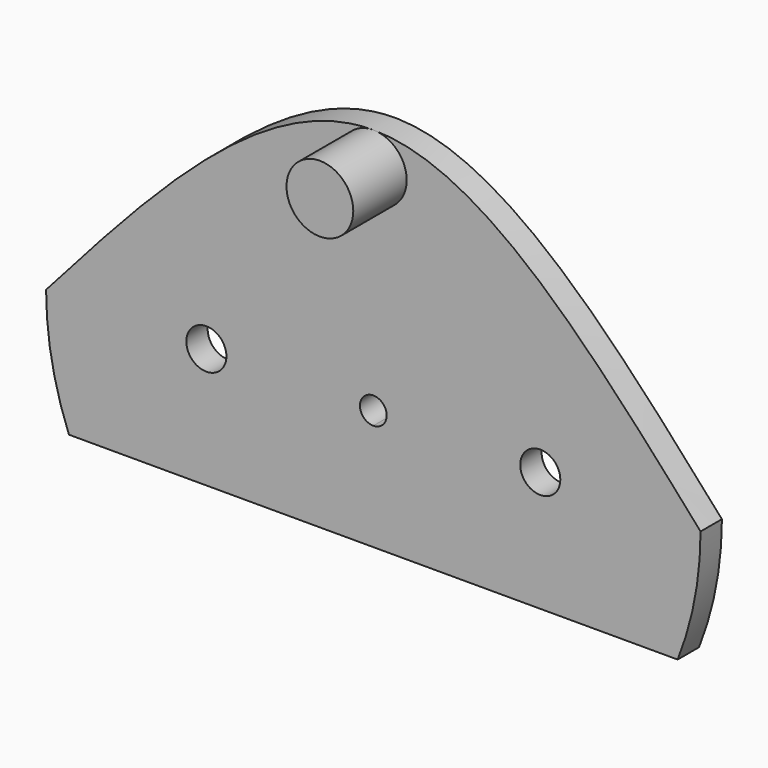
from build123d import *

# Parameters (mm, degrees)
F0_R     = 1.5
F1_DEPTH = 2
F2_R     = 2.5
F3_DEPTH = 5
F5_DEPTH = 25


with BuildPart() as f1:
    # F0 (on Front) → F1 (new body)
    with BuildSketch(Plane.XZ):
        with BuildLine():
            ThreePointArc((22.7870577302, -9), (24.0679549857, -4.5807797158), (24.5, 0))
            ThreePointArc((24.5, 0), (-4.5807797158, 24.0679549857), (-22.7870577302, -9))
            Line((-22.7870577302, -9), (0, -9))
            Line((0, -9), (22.7870577302, -9))
        make_face()
        with Locations((-12.5, 0)):
            Circle(F0_R, mode=Mode.SUBTRACT)
        with BuildLine():
            ThreePointArc((1, 0), (0.7071067812, -0.7071067812), (0, -1))
            ThreePointArc((0, -1), (-0.7071067812, 0.7071067812), (1, 0))
        make_face(mode=Mode.SUBTRACT)
        with Locations((12.5, 0)):
            Circle(F0_R, mode=Mode.SUBTRACT)
    extrude(amount=F1_DEPTH)

    # F2 (on face) → F3 (join)
    with BuildSketch(Plane.XZ.offset(2)):
        with Locations((0, 16)):
            Circle(F2_R)
    extrude(amount=F3_DEPTH)

    # F4 (on face) → F5 (cut)
    with BuildSketch(Plane.XZ.offset(2)):
        with BuildLine():
            ThreePointArc((24.5, 0), (0, 24.5), (-24.5, 0))
            add(Edge.make_bspline(
                [(-24.5, 0), (-16.3333333333, 9.25), (-8.1666666667, 18.5), (0, 18.5)],
                knots=[0, 0, 0, 0, 0.5, 0.5, 0.5, 0.5], degree=3))
            add(Edge.make_bspline(
                [(0, 18.5), (8.1666666667, 18.5), (16.3333333333, 9.25), (24.5, 0)],
                knots=[0.5, 0.5, 0.5, 0.5, 1, 1, 1, 1], degree=3))
        make_face()
    extrude(amount=-F5_DEPTH, mode=Mode.SUBTRACT)


solid = f1.part
